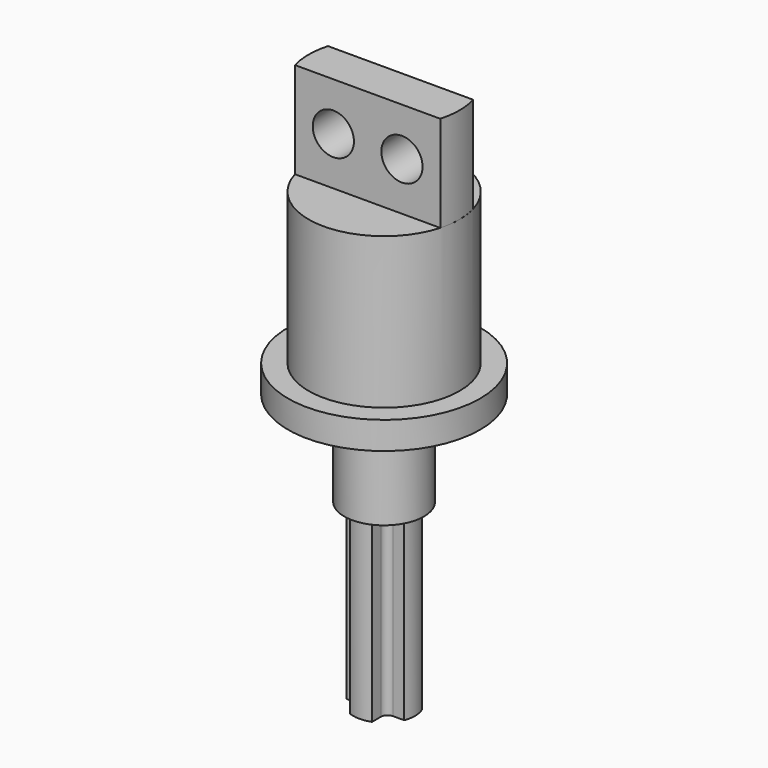
from build123d import *

# Parameters (mm, degrees)
PAD_DEPTH    = 13
SKETCH001_R  = 2.9
PAD001_DEPTH = 6.9
SKETCH002_R  = 7
PAD002_DEPTH = 2
SKETCH003_R  = 5.5
PAD003_DEPTH = 11
PAD004_DEPTH = 7
SKETCH005_R  = 1.5
POCKET_DEPTH = 3


with BuildPart() as part:
    # Sketch → Pad (new body)
    with BuildSketch(Plane.XY):
        with BuildLine():
            ThreePointArc((-0.8, -1.3), (-0.946447, -0.946447), (-1.3, -0.8))
            Line((-2.102974, -0.8), (-1.3, -0.8))
            ThreePointArc((-2.102974, 0.8), (-2.25, 0), (-2.102974, -0.8))
            Line((-1.3, 0.8), (-2.102974, 0.8))
            ThreePointArc((-1.3, 0.8), (-0.946447, 0.946447), (-0.8, 1.3))
            Line((-0.8, 2.102974), (-0.8, 1.3))
            ThreePointArc((0.8, 2.102974), (0, 2.25), (-0.8, 2.102974))
            Line((0.8, 1.3), (0.8, 2.102974))
            ThreePointArc((0.8, 1.3), (0.946447, 0.946447), (1.3, 0.8))
            Line((2.102974, 0.8), (1.3, 0.8))
            ThreePointArc((2.102974, -0.8), (2.25, 0), (2.102974, 0.8))
            Line((1.3, -0.8), (2.102974, -0.8))
            ThreePointArc((1.3, -0.8), (0.946447, -0.946447), (0.8, -1.3))
            Line((0.8, -2.102974), (0.8, -1.3))
            ThreePointArc((-0.8, -2.102974), (0, -2.25), (0.8, -2.102974))
            Line((-0.8, -1.3), (-0.8, -2.102974))
        make_face()
    extrude(amount=PAD_DEPTH)

    # Sketch001 (on Face18 of Pad) → Pad001 (join)
    with BuildSketch(Plane.XY.offset(13)):
        Circle(SKETCH001_R)
    extrude(amount=PAD001_DEPTH)

    # Sketch002 (on Face20 of Pad001) → Pad002 (join)
    with BuildSketch(Plane.XY.offset(19.9)):
        Circle(SKETCH002_R)
    extrude(amount=PAD002_DEPTH)

    # Sketch003 (on Face22 of Pad002) → Pad003 (join)
    with BuildSketch(Plane.XY.offset(21.9)):
        Circle(SKETCH003_R)
    extrude(amount=PAD003_DEPTH)

    # Sketch004 (on Face24 of Pad003) → Pad004 (join)
    with BuildSketch(Plane.XY.offset(32.9)):
        with BuildLine():
            Line((-5.291503, -1.5), (5.291503, -1.5))
            ThreePointArc((5.291503, -1.5), (5.499999, 0), (5.291503, 1.5))
            Line((-5.291503, 1.5), (5.291503, 1.5))
            ThreePointArc((-5.291503, 1.5), (-5.5, 0), (-5.291503, -1.5))
        make_face()
    extrude(amount=PAD004_DEPTH)

    # Sketch005 (on Face2 of Pad004) → Pocket (cut)
    with BuildSketch(Plane.XZ.offset(1.5)):
        with Locations((2.5, 36.4)):
            Circle(SKETCH005_R)
        with Locations((-2.5, 36.4)):
            Circle(SKETCH005_R)
    extrude(amount=-POCKET_DEPTH, mode=Mode.SUBTRACT)


solid = part.part
